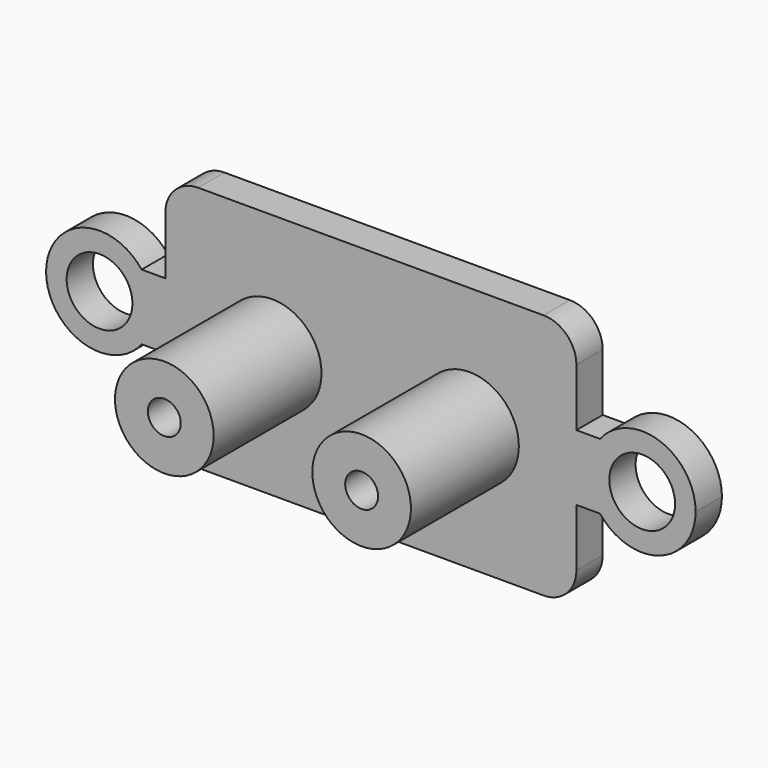
from build123d import *

# Parameters (mm, degrees)
F0_R     = 3
F0_R_2   = 2
F1_DEPTH = 2
F0_R_3   = 1
F2_DEPTH = 10.2


with BuildPart() as f1:
    # F0 (on Front) → F1 (new body)
    with BuildSketch(Plane.XZ):
        with BuildLine():
            Line((-10.5, -7.5), (10.5, -7.5))
            ThreePointArc((10.5, -7.5), (11.914214, -6.914214), (12.5, -5.5))
            Line((12.5, -5.5), (12.5, -2))
            Line((12.5, -2), (12.5, 2))
            Line((12.5, 2), (12.5, 5.5))
            ThreePointArc((12.5, 5.5), (11.914214, 6.914214), (10.5, 7.5))
            Line((10.5, 7.5), (-10.5, 7.5))
            ThreePointArc((-10.5, 7.5), (-11.914214, 6.914214), (-12.5, 5.5))
            Line((-12.5, 5.5), (-12.5, 2))
            Line((-12.5, 2), (-12.5, -2))
            Line((-12.5, -2), (-12.5, -5.5))
            ThreePointArc((-12.5, -5.5), (-11.914214, -6.914214), (-10.5, -7.5))
        make_face()
        with Locations((-6, 0)):
            Circle(F0_R, mode=Mode.SUBTRACT)
        with Locations((6, 0)):
            Circle(F0_R, mode=Mode.SUBTRACT)
        with BuildLine():
            Line((-13.938262, -2), (-12.5, -2))
            Line((-12.5, -2), (-12.5, 2))
            Line((-12.5, 2), (-13.938262, 2))
            ThreePointArc((-13.938262, 2), (-13.426879, 1.057557), (-13.25, 0))
            ThreePointArc((-13.25, 0), (-13.426879, -1.057557), (-13.938262, -2))
        make_face()
        with BuildLine():
            Line((-14.2, -2), (-13.938262, -2))
            ThreePointArc((-13.938262, -2), (-13.426879, -1.057557), (-13.25, 0))
            ThreePointArc((-13.25, 0), (-13.426879, 1.057557), (-13.938262, 2))
            Line((-13.938262, 2), (-14.2, 2))
            Line((-14.2, 2), (-14.2, -2))
        make_face()
        with BuildLine():
            ThreePointArc((-13.938262, 2), (-19.75, 0), (-13.938262, -2))
            Line((-13.938262, -2), (-14.2, -2))
            Line((-14.2, -2), (-14.2, 2))
            Line((-14.2, 2), (-13.938262, 2))
        make_face()
        with Locations((-16.5, 0)):
            Circle(F0_R_2, mode=Mode.SUBTRACT)
        with BuildLine():
            Line((12.5, 2), (12.5, -2))
            Line((12.5, -2), (13.938262, -2))
            ThreePointArc((13.938262, -2), (13.25, 0), (13.938262, 2))
            Line((13.938262, 2), (12.5, 2))
        make_face()
        with BuildLine():
            ThreePointArc((13.938262, 2), (13.25, 0), (13.938262, -2))
            Line((13.938262, -2), (14.2, -2))
            Line((14.2, -2), (14.2, 2))
            Line((14.2, 2), (13.938262, 2))
        make_face()
        with BuildLine():
            Line((14.2, -2), (13.938262, -2))
            ThreePointArc((13.938262, -2), (17.557557, -3.073121), (19.75, 0))
            ThreePointArc((19.75, 0), (17.557557, 3.073121), (13.938262, 2))
            Line((13.938262, 2), (14.2, 2))
            Line((14.2, 2), (14.2, -2))
        make_face()
        with Locations((16.5, 0)):
            Circle(F0_R_2, mode=Mode.SUBTRACT)
    extrude(amount=F1_DEPTH)

    # F0 (on Front) → F2 (join)
    with BuildSketch(Plane.XZ):
        with Locations((-6, 0)):
            Circle(F0_R)
        with Locations((-6, 0)):
            Circle(F0_R_3, mode=Mode.SUBTRACT)
        with Locations((6, 0)):
            Circle(F0_R)
        with Locations((6, 0)):
            Circle(F0_R_3, mode=Mode.SUBTRACT)
    extrude(amount=F2_DEPTH)


solid = f1.part
